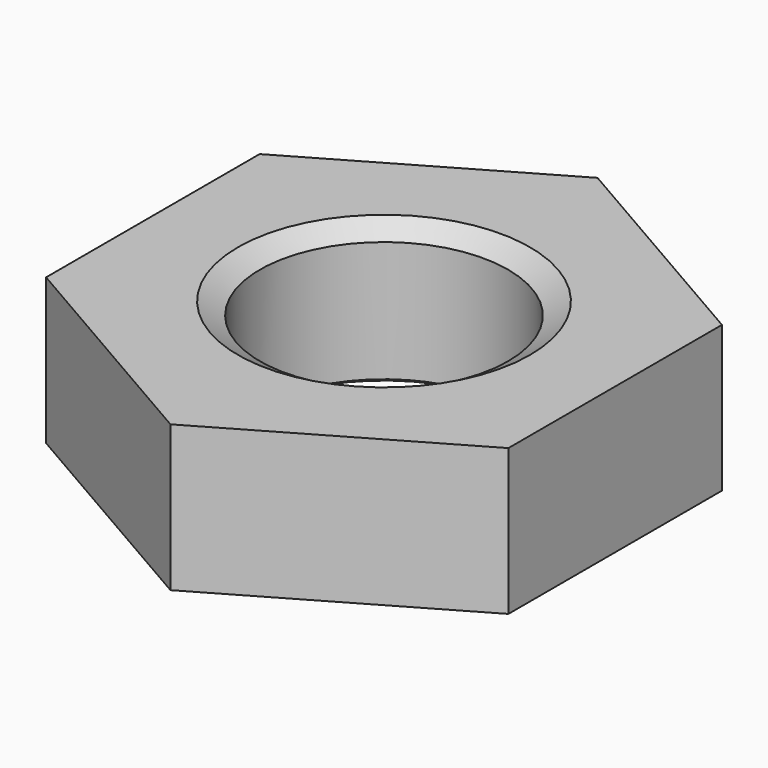
from build123d import *

# Parameters (mm, degrees)
SKETCH001_R  = 12
POCKET_DEPTH = 6


with BuildPart() as part:
    # Sketch → Revolution (revolve)
    with BuildSketch(Plane.XZ):
        Polygon((6, 0), (5.1, 0.519615), (5.1, 5.480385), (6, 6), (12, 6), (12, 0), align=None)
    revolve(axis=Axis((0, 0, 0), (0, 0, 1)))

    # Sketch001 → Pocket (cut)
    with BuildSketch(Plane(origin=(0, 0, 6), x_dir=(-1, 0, 0), z_dir=(0, 0, 1))):
        Circle(SKETCH001_R)
        Polygon((-9.5, 5.484828), (-9.5, -5.484828), (0, -10.969655), (9.5, -5.484828), (9.5, 5.484828), (0, 10.969655), align=None, mode=Mode.SUBTRACT)
    extrude(amount=-POCKET_DEPTH, mode=Mode.SUBTRACT)


solid = part.part
